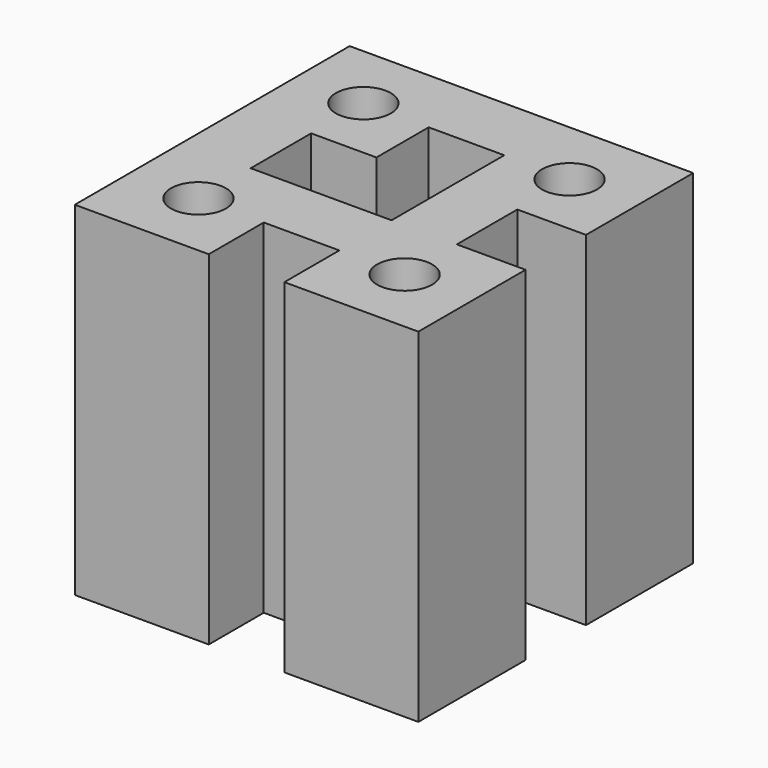
from build123d import *

# Parameters (mm, degrees)
F0_R     = 20
F1_DEPTH = 125


with BuildPart() as f1:
    # F0 (on Top) → F1 (new body, symmetric)
    with BuildSketch(Plane.XY):
        Polygon((27.5, -125), (125, -125), (125, -27.5), (75, -27.5), (75, 27.5), (125, 27.5), (125, 125), (-125, 125), (-125, -125), (-27.5, -125), (-27.5, -75), (27.5, -75), align=None)
        with Locations((-75, -75)):
            Circle(F0_R, mode=Mode.SUBTRACT)
        with Locations((75, -75)):
            Circle(F0_R, mode=Mode.SUBTRACT)
        Polygon((27.5, 75), (27.5, -27.5), (-75, -27.5), (-75, 27.5), (-27.5, 27.5), (-27.5, 75), align=None, mode=Mode.SUBTRACT)
        with Locations((-75, 75)):
            Circle(F0_R, mode=Mode.SUBTRACT)
        with Locations((75, 75)):
            Circle(F0_R, mode=Mode.SUBTRACT)
    extrude(amount=F1_DEPTH, both=True)


solid = f1.part
